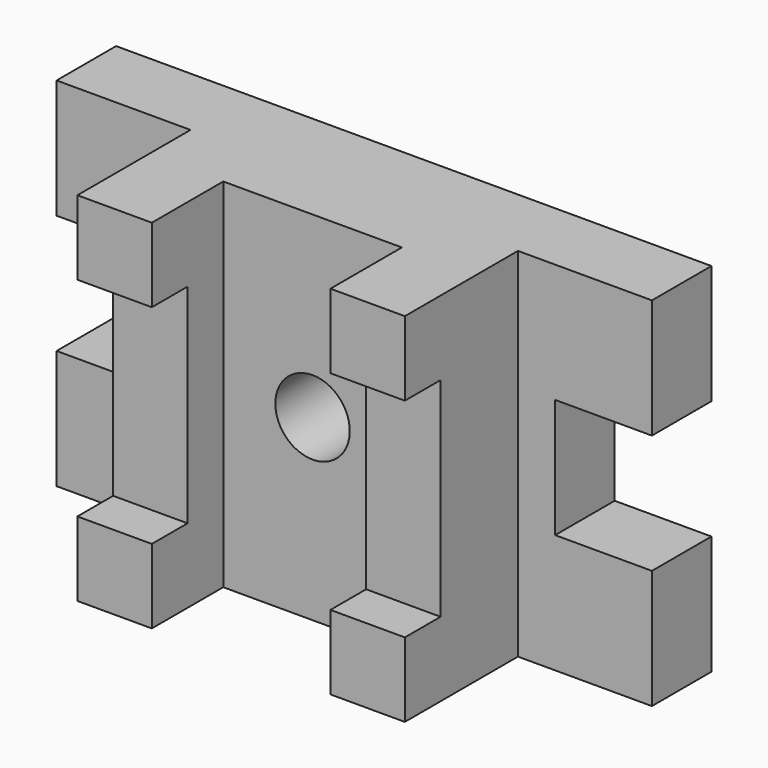
from build123d import *

# Parameters (mm, degrees)
F1_DEPTH = 31.75
F0_W     = 31.75
F0_H     = 31.75
F2_DEPTH = 92.075
F3_DEPTH = 53.975
F4_DEPTH = 25.4
F0_H_2   = 88.9
F5_DEPTH = 73.025
F6_DEPTH = 73.025
F7_SCALE = 0.5


with BuildPart() as f1:
    # F0 (on Front) → F1 (new body)
    with BuildSketch(Plane.XZ):
        Polygon((-53.2442199647, 89.5176894624), (-110.3942199647, 89.5176894624), (-110.3942199647, 38.7176894624), (-69.1192199647, 38.7176894624), (-69.1192199647, -12.0823105376), (-110.3942199647, -12.0823105376), (-110.3942199647, -62.8823105376), (-53.2442199647, -62.8823105376), (-53.2442199647, -31.1323105376), (-53.2442199647, 57.7676894624), align=None)
    extrude(amount=F1_DEPTH)

    # F0 (on Front) → F2 (join)
    with BuildSketch(Plane.XZ):
        Polygon((-21.4942199647, -31.1323105376), (-53.2442199647, -31.1323105376), (-53.2442199647, -62.8823105376), (-21.4942199647, -62.8823105376), (-21.4942199647, -57.0128560066), align=None)
        with Locations((-37.3692199647, 73.6426894624)):
            Rectangle(F0_W, F0_H)
    extrude(amount=F2_DEPTH)



with BuildPart() as f1b:
    # F0 (on Front) → F1, piece 2 (new body)
    with BuildSketch(Plane.XZ):
        Polygon((143.6057800353, 89.5176894624), (86.4557800353, 89.5176894624), (86.4557800353, 57.7676894624), (86.4557800353, -31.1323105376), (86.4557800353, -62.8823105376), (143.6057800353, -62.8823105376), (143.6057800353, -12.0823105376), (102.3307800353, -12.0823105376), (102.3307800353, 38.7176894624), (143.6057800353, 38.7176894624), align=None)
    extrude(amount=F1_DEPTH)

    # F0 (on Front) → F2, piece 2 (join)
    with BuildSketch(Plane.XZ):
        with Locations((70.5807800353, -47.0073105376)):
            Rectangle(F0_W, F0_H)
        with Locations((70.5807800353, 73.6426894624)):
            Rectangle(F0_W, F0_H)
    extrude(amount=F2_DEPTH)


with BuildPart() as f1_1:
    add(f1.part)

    add(f1b.part)  # F3 merges F1b
    # F0 (on Front) → F3 (join)
    with BuildSketch(Plane.XZ):
        with BuildLine():
            Line((0, 89.5176894624), (-21.4942199647, 89.5176894624))
            Line((-21.4942199647, 89.5176894624), (-21.4942199647, 57.7676894624))
            Line((-21.4942199647, 57.7676894624), (-21.4942199647, -31.1323105376))
            Line((-21.4942199647, -31.1323105376), (-21.4942199647, -57.0128560066))
            Line((-21.4942199647, -57.0128560066), (-21.4942199647, -62.8823105376))
            Line((-21.4942199647, -62.8823105376), (16.6057800353, -62.8823105376))
            Line((16.6057800353, -62.8823105376), (16.6057800353, -2.5573105376))
            ThreePointArc((16.6057800353, -2.5573105376), (0.7307800353, 13.3176894624), (16.6057800353, 29.1926894624))
            Line((16.6057800353, 29.1926894624), (16.6057800353, 89.5176894624))
            Line((16.6057800353, 89.5176894624), (0, 89.5176894624))
        make_face()
        with BuildLine():
            Line((54.7057800353, 89.5176894624), (16.6057800353, 89.5176894624))
            Line((16.6057800353, 89.5176894624), (16.6057800353, 29.1926894624))
            ThreePointArc((16.6057800353, 29.1926894624), (32.4807800353, 13.3176894624), (16.6057800353, -2.5573105376))
            Line((16.6057800353, -2.5573105376), (16.6057800353, -62.8823105376))
            Line((16.6057800353, -62.8823105376), (54.7057800353, -62.8823105376))
            Line((54.7057800353, -62.8823105376), (54.7057800353, -31.1323105376))
            Line((54.7057800353, -31.1323105376), (54.7057800353, 57.7676894624))
            Line((54.7057800353, 57.7676894624), (54.7057800353, 89.5176894624))
        make_face()
    extrude(amount=F3_DEPTH)

    # F0 (on Front) → F4 (join)
    with BuildSketch(Plane.XZ):
        Polygon((-53.2442199647, 89.5176894624), (-110.3942199647, 89.5176894624), (-110.3942199647, 38.7176894624), (-69.1192199647, 38.7176894624), (-69.1192199647, -12.0823105376), (-110.3942199647, -12.0823105376), (-110.3942199647, -62.8823105376), (-53.2442199647, -62.8823105376), (-53.2442199647, -31.1323105376), (-53.2442199647, 57.7676894624), align=None)
        with Locations((-37.3692199647, 73.6426894624)):
            Rectangle(F0_W, F0_H)
        with BuildLine():
            Line((0, 89.5176894624), (-21.4942199647, 89.5176894624))
            Line((-21.4942199647, 89.5176894624), (-21.4942199647, 57.7676894624))
            Line((-21.4942199647, 57.7676894624), (-21.4942199647, -31.1323105376))
            Line((-21.4942199647, -31.1323105376), (-21.4942199647, -57.0128560066))
            Line((-21.4942199647, -57.0128560066), (-21.4942199647, -62.8823105376))
            Line((-21.4942199647, -62.8823105376), (16.6057800353, -62.8823105376))
            Line((16.6057800353, -62.8823105376), (16.6057800353, -2.5573105376))
            ThreePointArc((16.6057800353, -2.5573105376), (0.7307800353, 13.3176894624), (16.6057800353, 29.1926894624))
            Line((16.6057800353, 29.1926894624), (16.6057800353, 89.5176894624))
            Line((16.6057800353, 89.5176894624), (0, 89.5176894624))
        make_face()
        Polygon((-21.4942199647, -31.1323105376), (-53.2442199647, -31.1323105376), (-53.2442199647, -62.8823105376), (-21.4942199647, -62.8823105376), (-21.4942199647, -57.0128560066), align=None)
        with BuildLine():
            Line((54.7057800353, 89.5176894624), (16.6057800353, 89.5176894624))
            Line((16.6057800353, 89.5176894624), (16.6057800353, 29.1926894624))
            ThreePointArc((16.6057800353, 29.1926894624), (32.4807800353, 13.3176894624), (16.6057800353, -2.5573105376))
            Line((16.6057800353, -2.5573105376), (16.6057800353, -62.8823105376))
            Line((16.6057800353, -62.8823105376), (54.7057800353, -62.8823105376))
            Line((54.7057800353, -62.8823105376), (54.7057800353, -31.1323105376))
            Line((54.7057800353, -31.1323105376), (54.7057800353, 57.7676894624))
            Line((54.7057800353, 57.7676894624), (54.7057800353, 89.5176894624))
        make_face()
        with Locations((70.5807800353, 73.6426894624)):
            Rectangle(F0_W, F0_H)
        Polygon((143.6057800353, 89.5176894624), (86.4557800353, 89.5176894624), (86.4557800353, 57.7676894624), (86.4557800353, -31.1323105376), (86.4557800353, -62.8823105376), (143.6057800353, -62.8823105376), (143.6057800353, -12.0823105376), (102.3307800353, -12.0823105376), (102.3307800353, 38.7176894624), (143.6057800353, 38.7176894624), align=None)
        with Locations((70.5807800353, -47.0073105376)):
            Rectangle(F0_W, F0_H)
    extrude(amount=F4_DEPTH)

    # F0 (on Front) → F5 (join)
    with BuildSketch(Plane.XZ):
        with Locations((-37.3692199647, 13.3176894624)):
            Rectangle(F0_W, F0_H_2)
    extrude(amount=F5_DEPTH)

    # F0 (on Front) → F6 (join)
    with BuildSketch(Plane.XZ):
        with Locations((70.5807800353, 13.3176894624)):
            Rectangle(F0_W, F0_H_2)
    extrude(amount=F6_DEPTH)


with BuildPart() as f1_2:
    # F7: moved
    add(f1_1.part.scale(F7_SCALE).moved(Location((27.3528900176, -46.0375, 28.8838447312))))


solid = f1_2.part
